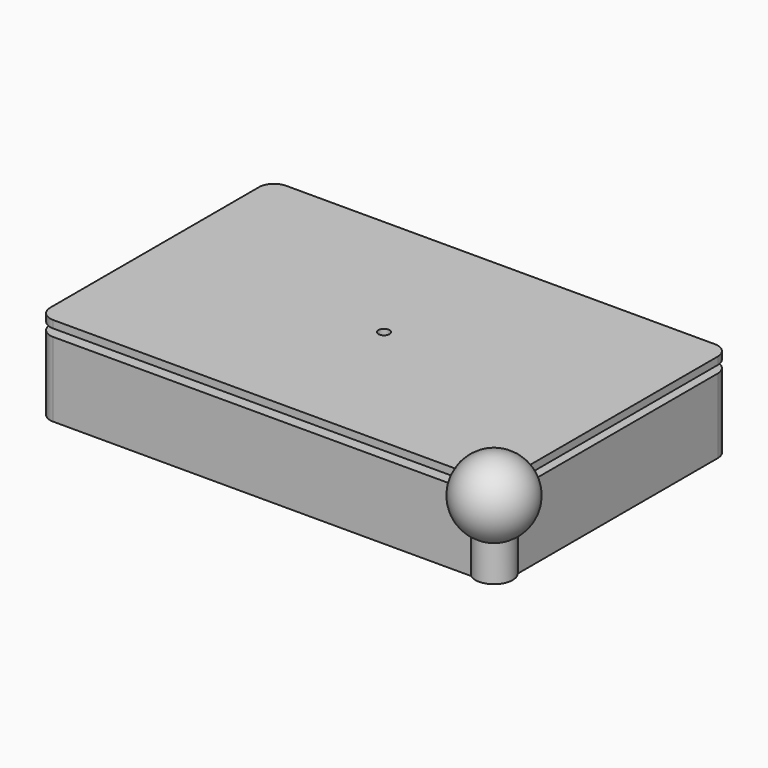
from build123d import *

# Parameters (mm, degrees)
SKETCH_W                = 115
SKETCH_H                = 70
PAD_DEPTH               = 20
PAD001_DEPTH            = 2
SKETCH002_R             = 1.5
PAD002_DEPTH            = 2
SKETCH003_W             = 114.95
SKETCH003_H             = 69.95
SKETCH003_R             = 1.5
PAD003_DEPTH            = 4
FILLET_R                = 0.5
BODY001_PLACEMENT_ANGLE = 180
SKETCH004_R             = 5
SKETCH004_R_2           = 1.5
PAD004_DEPTH            = 10


with BuildPart() as body:
    # Sketch → Pad (new body)
    with BuildSketch(Plane.XY):
        with BuildLine():
            Line((-115, 74), (0, 74))
            ThreePointArc((4, 70), (2.828427, 72.828427), (0, 74))
            Line((4, 70), (4, 0))
            ThreePointArc((0, -4), (2.828427, -2.828427), (4, 0))
            Line((0, -4), (-115, -4))
            ThreePointArc((-119, 0), (-117.828427, -2.828427), (-115, -4))
            Line((-119, 0), (-119, 70))
            ThreePointArc((-115, 74), (-117.828427, 72.828427), (-119, 70))
        make_face()
        with Locations((-57.5, 35)):
            Rectangle(SKETCH_W, SKETCH_H, mode=Mode.SUBTRACT)
    extrude(amount=PAD_DEPTH)

    # Sketch001 → Pad001 (join)
    with BuildSketch(Plane.XY):
        with BuildLine():
            Line((-115, 74), (0, 74))
            ThreePointArc((4, 70), (2.828427, 72.828427), (0, 74))
            Line((4, 70), (4, 0))
            ThreePointArc((0, -4), (2.828427, -2.828427), (4, 0))
            Line((0, -4), (-115, -4))
            ThreePointArc((-119, 0), (-117.828427, -2.828427), (-115, -4))
            Line((-119, 0), (-119, 70))
            ThreePointArc((-115, 74), (-117.828427, 72.828427), (-119, 70))
        make_face()
    extrude(amount=PAD001_DEPTH)


with BuildPart() as body001cover:
    # Sketch002 → Pad002 (new body)
    with BuildSketch(Plane.XY):
        with BuildLine():
            Line((-115, 74), (0, 74))
            ThreePointArc((4, 70), (2.828427, 72.828427), (0, 74))
            Line((4, 70), (4, 0))
            ThreePointArc((0, -4), (2.828427, -2.828427), (4, 0))
            Line((0, -4), (-115, -4))
            ThreePointArc((-119, 0), (-117.828427, -2.828427), (-115, -4))
            Line((-119, 0), (-119, 70))
            ThreePointArc((-115, 74), (-117.828427, 72.828427), (-119, 70))
        make_face()
        with Locations((-57.5, 35)):
            Circle(SKETCH002_R, mode=Mode.SUBTRACT)
    extrude(amount=PAD002_DEPTH)

    # Sketch003 → Pad003 (join)
    with BuildSketch(Plane.XY):
        with Locations((-57.475, 34.975)):
            Rectangle(SKETCH003_W, SKETCH003_H)
        with Locations((-57.5, 35)):
            Circle(SKETCH003_R, mode=Mode.SUBTRACT)
    extrude(amount=PAD003_DEPTH)

    # Fillet
    fillet_edges = [body001cover.edges().sort_by_distance(p)[0] for p in [
        (0, 34.975, 2),
        (0, 0, 3),
        (0, 34.975, 4),
        (0, 69.95, 3),
        (-57.475, 69.95, 2),
        (-57.475, 69.95, 4),
        (-114.95, 69.95, 3),
        (-57.475, 0, 2),
        (-114.95, 0, 3),
        (-57.475, 0, 4),
        (-114.95, 34.975, 2),
        (-114.95, 34.975, 4),
    ]]
    fillet(fillet_edges, radius=FILLET_R)


with BuildPart() as body001cover_1:
    # Body001 placement: moved
    add(body001cover.part.moved(Location((0, 70, 24))).rotate(Axis((0, 70, 24), (1, 0, 0)), BODY001_PLACEMENT_ANGLE))


with BuildPart() as body002head:
    # Sketch004 → Pad004 (new body)
    with BuildSketch(Plane.XY):
        Circle(SKETCH004_R)
        Circle(SKETCH004_R_2, mode=Mode.SUBTRACT)
    extrude(amount=PAD004_DEPTH)

    # Sketch005 → Revolution (revolve)
    with BuildSketch(Plane.XZ):
        with BuildLine():
            Line((0, 28.36731), (0, 8.36731))
            ThreePointArc((0, 28.36731), (-10, 18.36731), (0, 8.36731))
        make_face()
    revolve(axis=Axis((0, 0, 0), (0, 0, 1)))


solid = Compound([body.part, body001cover_1.part, body002head.part])
